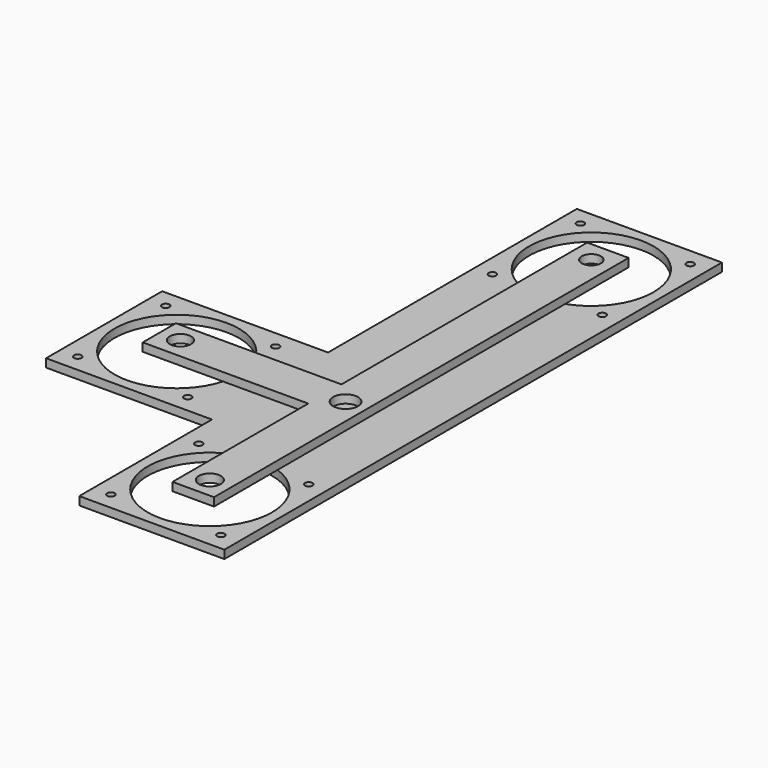
from build123d import *

# Parameters (mm, degrees)
F0_W     = 70
F0_H     = 150
F0_R     = 1.8
F0_R_2   = 30
F1_DEPTH = 4
F3_ANGLE = 270
F5_W     = 20
F5_H     = 20
F5_R     = 6
F5_R_2   = 5.3214513589
F5_R_3   = 5.1369141006
F5_R_4   = 4.6291012192
F6_DEPTH = 4


with BuildPart() as f1:
    # F0 (on Top) → F1 (new body)
    with BuildSketch(Plane.XY):
        with Locations((0, 75)):
            Rectangle(F0_W, F0_H)
        with Locations((-26.5, 88.5)):
            Circle(F0_R, mode=Mode.SUBTRACT)
        with Locations((-26.5, 141.5)):
            Circle(F0_R, mode=Mode.SUBTRACT)
        with Locations((26.5, 88.5)):
            Circle(F0_R, mode=Mode.SUBTRACT)
        with Locations((0, 115)):
            Circle(F0_R_2, mode=Mode.SUBTRACT)
        with Locations((26.5, 141.5)):
            Circle(F0_R, mode=Mode.SUBTRACT)
    extrude(amount=F1_DEPTH)


with BuildPart() as f2_1:
    # F2: instance of F1
    add(f1.part.mirror(Plane.XZ))


with BuildPart() as f3_1:
    # F3: copy of F1
    add(f1.part.rotate(Axis((35, 0, 2), (0, 0, -1)), F3_ANGLE))


with BuildPart() as f1_1:
    add(f1.part)

    # F4: union F3_1, F2_1
    add(f3_1.part)
    add(f2_1.part)


with BuildPart() as f6:
    # F5 (on face) → F6 (new body)
    with BuildSketch(Plane.XY.offset(4)):
        with Locations((0, -33.1673508024)):
            Rectangle(F5_W, F5_H)
        with Locations((0, -33.1673508024)):
            Circle(F5_R, mode=Mode.SUBTRACT)
        with BuildLine():
            Line((10, -43.1673508024), (-10, -43.1673508024))
            Line((-10, -43.1673508024), (-10, -86.7157287525))
            ThreePointArc((-10, -86.7157287525), (0, -85), (10, -86.7157287525))
            Line((10, -86.7157287525), (10, -43.1673508024))
        make_face()
        with BuildLine():
            ThreePointArc((10, -86.7157287525), (0, -85), (-10, -86.7157287525))
            Line((-10, -86.7157287525), (-10, -125))
            Line((-10, -125), (10, -125))
            Line((10, -125), (10, -86.7157287525))
        make_face()
        with Locations((0, -115)):
            Circle(F5_R_2, mode=Mode.SUBTRACT)
        with BuildLine():
            Line((-10, -43.1673508024), (-10, -23.1673508024))
            Line((-10, -23.1673508024), (-52.4321126496, -23.1673508024))
            ThreePointArc((-52.4321126496, -23.1673508024), (-50.6143179379, -28.9599925709), (-50, -35))
            ThreePointArc((-50, -35), (-50.2846406445, -39.1227925454), (-51.1331612248, -43.1673508024))
            Line((-51.1331612248, -43.1673508024), (-10, -43.1673508024))
        make_face()
        with BuildLine():
            ThreePointArc((-50, -35), (-50.6143179379, -28.9599925709), (-52.4321126496, -23.1673508024))
            Line((-52.4321126496, -23.1673508024), (-89.8449262611, -23.1673508024))
            Line((-89.8449262611, -23.1673508024), (-89.8449262611, -43.1673508024))
            Line((-89.8449262611, -43.1673508024), (-51.1331612248, -43.1673508024))
            ThreePointArc((-51.1331612248, -43.1673508024), (-50.2846406445, -39.1227925454), (-50, -35))
        make_face()
        with Locations((-79.8449262611, -32.9371653497)):
            Circle(F5_R_3, mode=Mode.SUBTRACT)
        with BuildLine():
            ThreePointArc((10, 86.7157287525), (0, 85), (-10, 86.7157287525))
            Line((-10, 86.7157287525), (-10, -23.1673508024))
            Line((-10, -23.1673508024), (10, -23.1673508024))
            Line((10, -23.1673508024), (10, 86.7157287525))
        make_face()
        with BuildLine():
            Line((10, 125), (-10, 125))
            Line((-10, 125), (-10, 86.7157287525))
            ThreePointArc((-10, 86.7157287525), (0, 85), (10, 86.7157287525))
            Line((10, 86.7157287525), (10, 125))
        make_face()
        with Locations((0, 115)):
            Circle(F5_R_4, mode=Mode.SUBTRACT)
    extrude(amount=F6_DEPTH)


solid = Compound([f1_1.part, f6.part])
